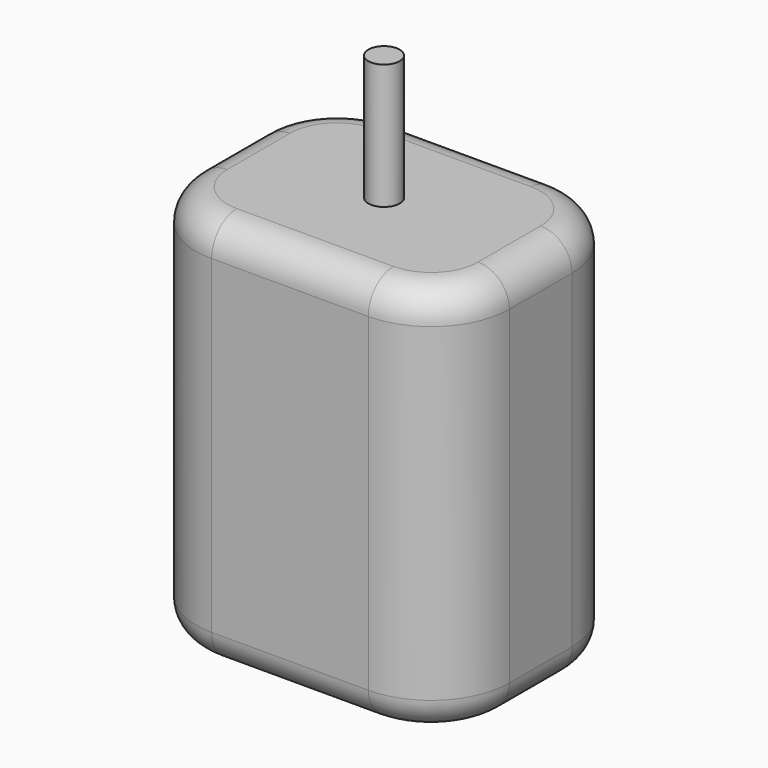
from build123d import *

# Parameters (mm, degrees)
F1_DEPTH = 25
F2_R     = 2
F3_R     = 1
F4_DEPTH = 8


with BuildPart() as f1:
    # F0 (on Top) → F1 (new body)
    with BuildSketch(Plane.XY):
        with BuildLine():
            ThreePointArc((10, 2.5), (8.535534, 6.035534), (5, 7.5))
            Line((5, 7.5), (-5, 7.5))
            ThreePointArc((-5, 7.5), (-8.535534, 6.035534), (-10, 2.5))
            Line((-10, 2.5), (-10, -2.5))
            ThreePointArc((-10, -2.5), (-8.535534, -6.035534), (-5, -7.5))
            Line((-5, -7.5), (5, -7.5))
            ThreePointArc((5, -7.5), (8.535534, -6.035534), (10, -2.5))
            Line((10, -2.5), (10, 2.5))
        make_face()
    extrude(amount=F1_DEPTH)

    # F2
    f2_edges = [f1.edges().sort_by_distance(p)[0] for p in [
        (0, 7.5, 25),
        (0, 7.5, 0),
    ]]
    fillet(f2_edges, radius=F2_R)

    # F3 (on face) → F4 (join)
    with BuildSketch(Plane.XY.offset(25)):
        Circle(F3_R)
    extrude(amount=F4_DEPTH)


solid = f1.part
